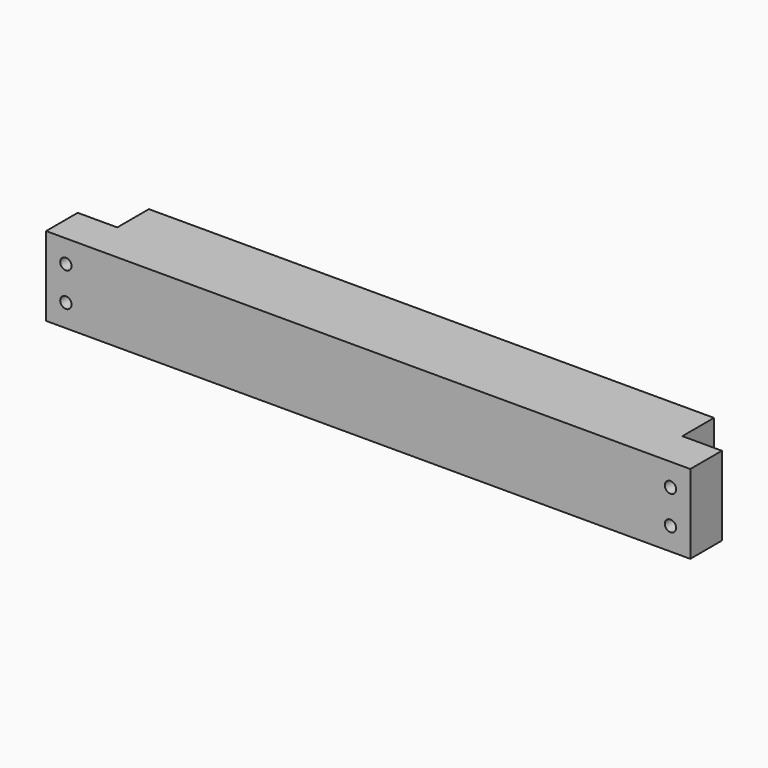
from build123d import *

# Parameters (mm, degrees)
F0_W     = 723.9
F0_H     = 88.9
F0_R     = 6.35
F1_DEPTH = 88.9
F2_W     = 44.45
F2_H     = 44.45
F3_DEPTH = 101.6


with BuildPart() as f1:
    # F0 (on Front) → F1 (new body)
    with BuildSketch(Plane.XZ):
        Rectangle(F0_W, F0_H)
        with Locations((-339.725, -19.05)):
            Circle(F0_R, mode=Mode.SUBTRACT)
        with Locations((339.725, -19.05)):
            Circle(F0_R, mode=Mode.SUBTRACT)
        with Locations((-339.725, 19.05)):
            Circle(F0_R, mode=Mode.SUBTRACT)
        with Locations((339.725, 19.05)):
            Circle(F0_R, mode=Mode.SUBTRACT)
    extrude(amount=F1_DEPTH)

    # F2 (on face) → F3 (cut)
    with BuildSketch(Plane.XY.offset(44.45)):
        with Locations((-339.725, -22.225)):
            Rectangle(F2_W, F2_H)
        with Locations((339.725, -22.225)):
            Rectangle(F2_W, F2_H)
    extrude(amount=-F3_DEPTH, mode=Mode.SUBTRACT)


solid = f1.part
